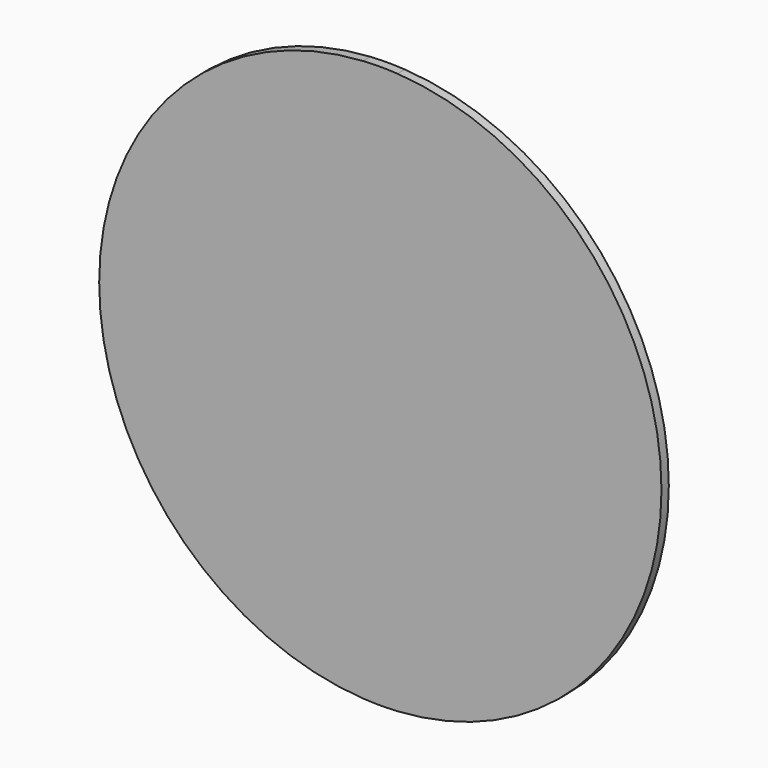
from build123d import *

# Parameters (mm, degrees)
F1_DEPTH = 2.54


with BuildPart() as f1:
    # F0 (on Front) → F1 (new body)
    with BuildSketch(Plane.XZ):
        with BuildLine():
            ThreePointArc((4.7625, 68.0961636217), (49.9242879894, 46.5546385981), (68.2625, 0))
            ThreePointArc((68.2625, 0), (49.9242879894, -46.5546385981), (4.7625, -68.0961636217))
            Line((4.7625, -68.0961636217), (4.7625, -77.641572305))
            ThreePointArc((4.7625, -77.641572305), (56.6628543448, -53.2936778028), (77.7875, 0))
            ThreePointArc((77.7875, 0), (56.6628543448, 53.2936778028), (4.7625, 77.641572305))
            Line((4.7625, 77.641572305), (4.7625, 68.0961636217))
        make_face()
        with BuildLine():
            ThreePointArc((-4.7625, 68.0961636217), (0, 68.2625), (4.7625, 68.0961636217))
            Line((4.7625, 68.0961636217), (4.7625, 77.641572305))
            Line((4.7625, 77.641572305), (-4.7625, 77.641572305))
            Line((-4.7625, 77.641572305), (-4.7625, 68.0961636217))
        make_face()
        with BuildLine():
            Line((4.7625, -77.641572305), (4.7625, -68.0961636217))
            ThreePointArc((4.7625, -68.0961636217), (0, -68.2625), (-4.7625, -68.0961636217))
            Line((-4.7625, -68.0961636217), (-4.7625, -77.641572305))
            Line((-4.7625, -77.641572305), (4.7625, -77.641572305))
        make_face()
        with BuildLine():
            ThreePointArc((-4.7625, -68.0961636217), (-68.2625, 0), (-4.7625, 68.0961636217))
            Line((-4.7625, 68.0961636217), (-4.7625, 77.641572305))
            ThreePointArc((-4.7625, 77.641572305), (-77.7875, 0), (-4.7625, -77.641572305))
            Line((-4.7625, -77.641572305), (-4.7625, -68.0961636217))
        make_face()
        with BuildLine():
            Line((-4.7625, 77.641572305), (4.7625, 77.641572305))
            ThreePointArc((4.7625, 77.641572305), (0, 77.7875), (-4.7625, 77.641572305))
        make_face()
        with BuildLine():
            ThreePointArc((-4.7625, -77.641572305), (0, -77.7875), (4.7625, -77.641572305))
            Line((4.7625, -77.641572305), (-4.7625, -77.641572305))
        make_face()
        with BuildLine():
            Line((-4.7625, -68.0961636217), (-4.7625, 68.0961636217))
            ThreePointArc((-4.7625, 68.0961636217), (-68.2625, 0), (-4.7625, -68.0961636217))
        make_face()
        with BuildLine():
            ThreePointArc((4.7625, -68.0961636217), (49.9242879894, -46.5546385981), (68.2625, 0))
            ThreePointArc((68.2625, 0), (49.9242879894, 46.5546385981), (4.7625, 68.0961636217))
            Line((4.7625, 68.0961636217), (4.7625, -68.0961636217))
        make_face()
        with BuildLine():
            Line((4.7625, -68.0961636217), (4.7625, 68.0961636217))
            ThreePointArc((4.7625, 68.0961636217), (0, 68.2625), (-4.7625, 68.0961636217))
            Line((-4.7625, 68.0961636217), (-4.7625, -68.0961636217))
            ThreePointArc((-4.7625, -68.0961636217), (0, -68.2625), (4.7625, -68.0961636217))
        make_face()
    extrude(amount=F1_DEPTH)


solid = f1.part
